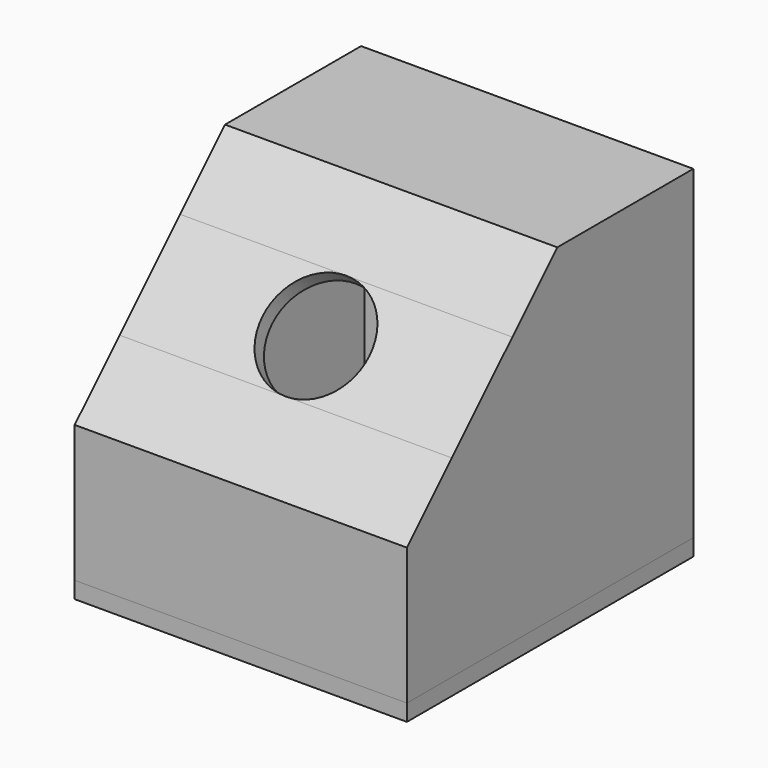
from build123d import *

# Parameters (mm, degrees)
F3_DEPTH  = 25
F4_T      = -2.5
F6_W      = 50
F6_H      = 53.8759757726
F6_W_2    = 45
F6_H_2    = 48.8759757726
F7_DEPTH  = 2.5
F8_W      = 44.7
F8_H      = 48.5759757726
F8_W_2    = 40.7
F8_H_2    = 44.5759757726
F9_DEPTH  = 2.5
F10_R     = 3
F11_DEPTH = 25


with BuildPart() as f1:
    # F0 (on Right) → F1 (revolve)
    with BuildSketch(Plane.YZ):
        Polygon((5.6922095886, 5.6922095886), (0, 0), (24.7487373415, -24.7487373415), (30.4409469301, -19.056527753), align=None)
    revolve(axis=Axis((0, 12.3743686708, -12.3743686708), (0, -0.7071067812, 0.7071067812)))


with BuildPart() as f3:
    # F2 (on Right) → F3 (new body, symmetric)
    with BuildSketch(Plane.YZ):
        Polygon((-4.9851028074, -6.3993163697), (-13.4350288425, -14.8492424049), (-13.4350288425, -35.4409469301), (40.4409469301, -35.4409469301), (40.4409469301, 13.4350288425), (14.8492424049, 13.4350288425), (6.3993163697, 4.9851028074), (7.8135299321, 3.570889245), (15.6776695297, 11.4350288425), (38.4409469301, 11.4350288425), (38.4409469301, -33.4409469301), (-11.4350288425, -33.4409469301), (-11.4350288425, -15.6776695297), (-3.570889245, -7.8135299321), align=None)
        Polygon((6.3993163697, 4.9851028074), (-4.9851028074, -6.3993163697), (-3.570889245, -7.8135299321), (7.8135299321, 3.570889245), align=None)
        Polygon((7.8135299321, 3.570889245), (-3.570889245, -7.8135299321), (-11.4350288425, -15.6776695297), (-11.4350288425, -33.4409469301), (38.4409469301, -33.4409469301), (38.4409469301, 11.4350288425), (15.6776695297, 11.4350288425), align=None)
    extrude(amount=F3_DEPTH, both=True)

    # F4
    f4_openings = [f3.faces().sort_by_distance(p)[0] for p in [
        (0, 13.502959, -35.440947),
    ]]
    offset(amount=F4_T, openings=f4_openings)

    # F5: cut F1
    add(f1.part, mode=Mode.SUBTRACT)


with BuildPart() as f7:
    # F6 (on face) → F7 (new body)
    with BuildSketch(Plane(origin=(0, 0, -35.4409469301), x_dir=(1, 0, 0), z_dir=(0, 0, -1))):
        with Locations((0, -13.5029590438)):
            Rectangle(F6_W, F6_H)
        with Locations((0, -13.5029590438)):
            Rectangle(F6_W_2, F6_H_2, mode=Mode.SUBTRACT)
        with Locations((0, -13.5029590438)):
            Rectangle(F6_W_2, F6_H_2)
    extrude(amount=F7_DEPTH)

    # F8 (on face) → F9 (join)
    with BuildSketch(Plane.XY.offset(-35.4409469301)):
        with Locations((0, 13.5029590438)):
            Rectangle(F8_W, F8_H)
        with Locations((0, 13.5029590438)):
            Rectangle(F8_W_2, F8_H_2, mode=Mode.SUBTRACT)
    extrude(amount=F9_DEPTH)


with BuildPart() as f11_tool:
    # F10 (on face) → F11 (new body)
    with BuildSketch(Plane(origin=(0, 40.4409469301, 0), x_dir=(-1, 0, 0), z_dir=(0, 1, 0))):
        with Locations((0, -30.4409469301)):
            Circle(F10_R)
    extrude(amount=-F11_DEPTH)


with BuildPart() as f3_1:
    add(f3.part)

    # F11: cut by f11_tool
    add(f11_tool.part, mode=Mode.SUBTRACT)


with BuildPart() as f7_1:
    add(f7.part)

    # F11: cut by f11_tool
    add(f11_tool.part, mode=Mode.SUBTRACT)


solid = Compound([f3_1.part, f7_1.part])
